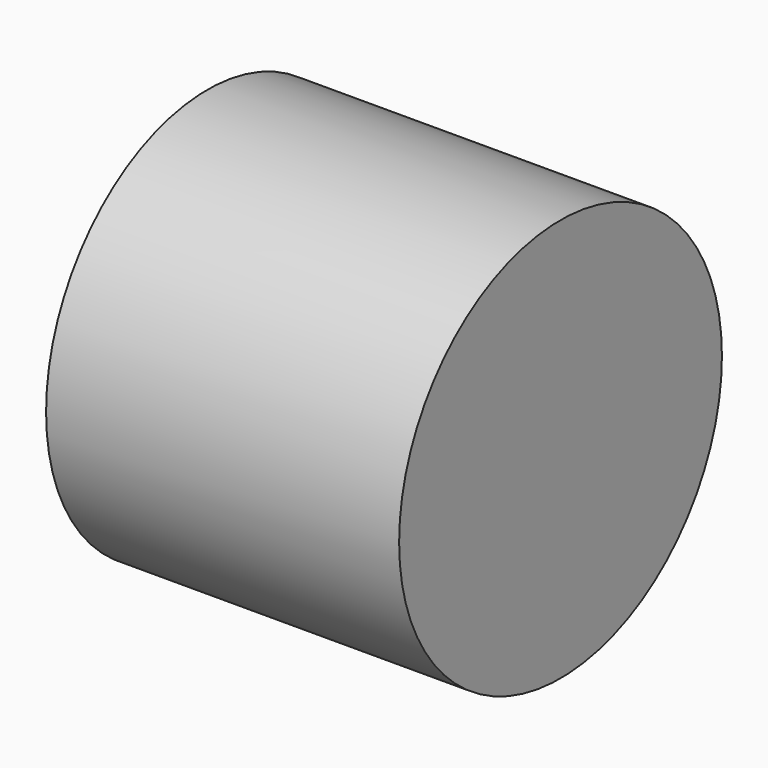
from build123d import *

# Parameters (mm, degrees)
F0_R     = 8
F1_DEPTH = 14
F2_W     = 0.63
F2_H     = 0.63
F3_DEPTH = 7
F6_W     = 0.685
F6_H     = 0.63
F6_W_2   = 0.63
F7_DEPTH = 7


with BuildPart() as f1:
    # F0 (on Right) → F1 (new body)
    with BuildSketch(Plane.YZ):
        Circle(F0_R)
    extrude(amount=F1_DEPTH)

    # F2 (on Right) → F3 (cut)
    with BuildSketch(Plane.YZ):
        Rectangle(F2_W, F2_H)
    extrude(amount=F3_DEPTH, mode=Mode.SUBTRACT)

    # F6 (on offset) → F7 (cut)
    with BuildSketch(Plane(origin=(7, 0, 0), x_dir=(0, 1, 0), z_dir=(-1, 0, 0))):
        with Locations((-0.6575, 0)):
            Rectangle(F6_W, F6_H)
        Rectangle(F6_W_2, F6_H)
        with Locations((0.6575, 0)):
            Rectangle(F6_W, F6_H)
    extrude(amount=F7_DEPTH, mode=Mode.SUBTRACT)


solid = f1.part
